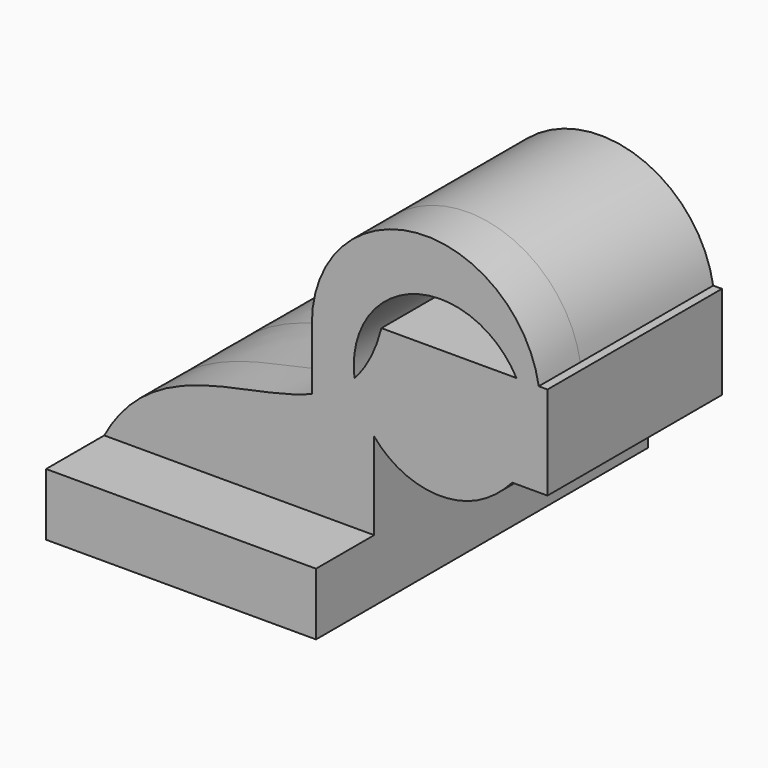
from build123d import *

# Parameters (mm, degrees)
F1_DEPTH = 63.5
F2_DEPTH = 25.4
F3_DEPTH = 15.875


with BuildPart() as f1:
    # F0 (on Front) → F1 (new body, symmetric)
    with BuildSketch(Plane.XZ):
        Polygon((41.275, -9.525), (41.275, 9.525), (22.225, 9.525), (-41.275, 9.525), (-41.275, -9.525), align=None)
    extrude(amount=F1_DEPTH, both=True)

    # F0 (on Front) → F2 (join, symmetric)
    with BuildSketch(Plane.XZ):
        Polygon((41.275, -9.525), (41.275, 9.525), (22.225, 9.525), (-41.275, 9.525), (-41.275, -9.525), align=None)
        with BuildLine():
            Line((22.225, 9.525), (41.275, 9.525))
            Line((41.275, 9.525), (41.275, 36.094566609))
            ThreePointArc((41.275, 36.094566609), (37.2701177009, 42.5355625854), (35.2519640423, 49.8466888466))
            add(Edge.make_bspline(
                [(22.225, 41.2858579773), (27.1473848913, 43.2390175142), (31.5927512489, 45.8874426384), (35.2519640423, 49.8466888466)],
                knots=[68.7075286576, 68.7075286576, 68.7075286576, 68.7075286576, 85.3888938388, 85.3888938388, 85.3888938388, 85.3888938388], degree=3))
            Line((22.225, 41.2858579773), (22.225, 9.525))
        make_face()
        with BuildLine():
            Line((-41.275, 9.525), (22.225, 9.525))
            Line((22.225, 9.525), (22.225, 41.2858579773))
            add(Edge.make_bspline(
                [(-41.275, 9.525), (-26.416290782, 36.991388499), (1.9505861672, 33.2411468041), (22.225, 41.2858579773)],
                knots=[0, 0, 0, 0, 68.7075286576, 68.7075286576, 68.7075286576, 68.7075286576], degree=3))
        make_face()
        with BuildLine():
            ThreePointArc((35.2519640423, 49.8466888466), (37.2701177009, 42.5355625854), (41.275, 36.094566609))
            Line((41.275, 36.094566609), (41.275, 59.3244851528))
            add(Edge.make_bspline(
                [(35.2519640423, 49.8466888466), (37.6153515316, 52.4038598787), (39.6507933359, 55.5078428034), (41.275, 59.3244851528)],
                knots=[85.3888938388, 85.3888938388, 85.3888938388, 85.3888938388, 96.162940608, 96.162940608, 96.162940608, 96.162940608], degree=3))
        make_face()
        with BuildLine():
            Line((41.275, 59.3244851528), (41.275, 36.094566609))
            ThreePointArc((41.275, 36.094566609), (57.3677651162, 26.987491807), (75.5005331428, 30.6094559468))
            ThreePointArc((75.5005331428, 30.6094559468), (79.7565516079, 33.7035903942), (83.4994215816, 37.4020070167))
            Line((83.4994215816, 37.4020070167), (43.4881349932, 37.4020070167))
            Line((43.4881349932, 37.4020070167), (43.4881349932, 65.9770070167))
            add(Edge.make_bspline(
                [(41.275, 59.3244851528), (42.1309988934, 61.335954321), (42.872774659, 63.5453690941), (43.4881349932, 65.9770070167)],
                knots=[96.162940608, 96.162940608, 96.162940608, 96.162940608, 101.8411417359, 101.8411417359, 101.8411417359, 101.8411417359], degree=3))
        make_face()
        with BuildLine():
            Line((22.225, 60.325), (22.225, 41.2858579773))
            add(Edge.make_bspline(
                [(22.225, 41.2858579773), (27.1473848913, 43.2390175142), (31.5927512489, 45.8874426384), (35.2519640423, 49.8466888466)],
                knots=[68.7075286576, 68.7075286576, 68.7075286576, 68.7075286576, 85.3888938388, 85.3888938388, 85.3888938388, 85.3888938388], degree=3))
            ThreePointArc((35.2519640423, 49.8466888466), (53.353585698, 78.3955074484), (84.7937605886, 65.9770070167))
            Line((84.7937605886, 65.9770070167), (91.6146259472, 65.9770070167))
            ThreePointArc((91.6146259472, 65.9770070167), (54.3146372549, 95.1347162169), (22.225, 60.325))
        make_face()
        with BuildLine():
            Line((71.9847713728, 65.9770070167), (43.4881349932, 65.9770070167))
            Line((43.4881349932, 65.9770070167), (43.4881349932, 37.4020070167))
            Line((43.4881349932, 37.4020070167), (83.4994215816, 37.4020070167))
            ThreePointArc((83.4994215816, 37.4020070167), (90.7464246678, 50.7837278343), (91.6146259472, 65.9770070167))
            Line((91.6146259472, 65.9770070167), (84.7937605886, 65.9770070167))
            Line((84.7937605886, 65.9770070167), (71.9847713728, 65.9770070167))
        make_face()
        with BuildLine():
            ThreePointArc((91.6146259472, 65.9770070167), (90.7464246678, 50.7837278343), (83.4994215816, 37.4020070167))
            Line((83.4994215816, 37.4020070167), (94.2881349932, 37.4020070167))
            Line((94.2881349932, 37.4020070167), (94.2881349932, 65.9770070167))
            Line((94.2881349932, 65.9770070167), (91.6146259472, 65.9770070167))
        make_face()
    extrude(amount=F2_DEPTH, both=True)

    # F0 (on Front) + F2_face (on face) → F3 (join)
    with BuildSketch(Plane.XZ):
        Polygon((41.275, -9.525), (41.275, 9.525), (22.225, 9.525), (-41.275, 9.525), (-41.275, -9.525), align=None)
        with BuildLine():
            Line((22.225, 9.525), (41.275, 9.525))
            Line((41.275, 9.525), (41.275, 36.094566609))
            ThreePointArc((41.275, 36.094566609), (37.2701177009, 42.5355625854), (35.2519640423, 49.8466888466))
            add(Edge.make_bspline(
                [(22.225, 41.2858579773), (27.1473848913, 43.2390175142), (31.5927512489, 45.8874426384), (35.2519640423, 49.8466888466)],
                knots=[68.7075286576, 68.7075286576, 68.7075286576, 68.7075286576, 85.3888938388, 85.3888938388, 85.3888938388, 85.3888938388], degree=3))
            Line((22.225, 41.2858579773), (22.225, 9.525))
        make_face()
        with BuildLine():
            Line((-41.275, 9.525), (22.225, 9.525))
            Line((22.225, 9.525), (22.225, 41.2858579773))
            add(Edge.make_bspline(
                [(-41.275, 9.525), (-26.416290782, 36.991388499), (1.9505861672, 33.2411468041), (22.225, 41.2858579773)],
                knots=[0, 0, 0, 0, 68.7075286576, 68.7075286576, 68.7075286576, 68.7075286576], degree=3))
        make_face()
        with BuildLine():
            ThreePointArc((35.2519640423, 49.8466888466), (37.2701177009, 42.5355625854), (41.275, 36.094566609))
            Line((41.275, 36.094566609), (41.275, 59.3244851528))
            add(Edge.make_bspline(
                [(35.2519640423, 49.8466888466), (37.6153515316, 52.4038598787), (39.6507933359, 55.5078428034), (41.275, 59.3244851528)],
                knots=[85.3888938388, 85.3888938388, 85.3888938388, 85.3888938388, 96.162940608, 96.162940608, 96.162940608, 96.162940608], degree=3))
        make_face()
        with BuildLine():
            Line((41.275, 59.3244851528), (41.275, 36.094566609))
            ThreePointArc((41.275, 36.094566609), (57.3677651162, 26.987491807), (75.5005331428, 30.6094559468))
            ThreePointArc((75.5005331428, 30.6094559468), (79.7565516079, 33.7035903942), (83.4994215816, 37.4020070167))
            Line((83.4994215816, 37.4020070167), (43.4881349932, 37.4020070167))
            Line((43.4881349932, 37.4020070167), (43.4881349932, 65.9770070167))
            add(Edge.make_bspline(
                [(41.275, 59.3244851528), (42.1309988934, 61.335954321), (42.872774659, 63.5453690941), (43.4881349932, 65.9770070167)],
                knots=[96.162940608, 96.162940608, 96.162940608, 96.162940608, 101.8411417359, 101.8411417359, 101.8411417359, 101.8411417359], degree=3))
        make_face()
        with BuildLine():
            Line((22.225, 60.325), (22.225, 41.2858579773))
            add(Edge.make_bspline(
                [(22.225, 41.2858579773), (27.1473848913, 43.2390175142), (31.5927512489, 45.8874426384), (35.2519640423, 49.8466888466)],
                knots=[68.7075286576, 68.7075286576, 68.7075286576, 68.7075286576, 85.3888938388, 85.3888938388, 85.3888938388, 85.3888938388], degree=3))
            ThreePointArc((35.2519640423, 49.8466888466), (53.353585698, 78.3955074484), (84.7937605886, 65.9770070167))
            Line((84.7937605886, 65.9770070167), (91.6146259472, 65.9770070167))
            ThreePointArc((91.6146259472, 65.9770070167), (54.3146372549, 95.1347162169), (22.225, 60.325))
        make_face()
        with BuildLine():
            Line((71.9847713728, 65.9770070167), (43.4881349932, 65.9770070167))
            Line((43.4881349932, 65.9770070167), (43.4881349932, 37.4020070167))
            Line((43.4881349932, 37.4020070167), (83.4994215816, 37.4020070167))
            ThreePointArc((83.4994215816, 37.4020070167), (90.7464246678, 50.7837278343), (91.6146259472, 65.9770070167))
            Line((91.6146259472, 65.9770070167), (84.7937605886, 65.9770070167))
            Line((84.7937605886, 65.9770070167), (71.9847713728, 65.9770070167))
        make_face()
        with BuildLine():
            ThreePointArc((91.6146259472, 65.9770070167), (90.7464246678, 50.7837278343), (83.4994215816, 37.4020070167))
            Line((83.4994215816, 37.4020070167), (94.2881349932, 37.4020070167))
            Line((94.2881349932, 37.4020070167), (94.2881349932, 65.9770070167))
            Line((94.2881349932, 65.9770070167), (91.6146259472, 65.9770070167))
        make_face()
    with BuildSketch(Plane(origin=(39.5464553356, -25.4, 45.7929419382), x_dir=(1, 0, 0), z_dir=(0, -1, 0))):
        with BuildLine():
            Line((-80.8214553356, -36.2679419382), (1.7285446644, -36.2679419382))
            Line((1.7285446644, -36.2679419382), (1.7285446644, -9.6983753292))
            ThreePointArc((1.7285446644, -9.6983753292), (17.8213097807, -18.8054501311), (35.9540778072, -15.1834859914))
            ThreePointArc((35.9540778072, -15.1834859914), (40.2100962723, -12.089351544), (43.952966246, -8.3909349215))
            Line((43.952966246, -8.3909349215), (54.7416796576, -8.3909349215))
            Line((54.7416796576, -8.3909349215), (54.7416796576, 20.1840650785))
            Line((54.7416796576, 20.1840650785), (52.0681706117, 20.1840650785))
            ThreePointArc((52.0681706117, 20.1840650785), (14.7681819193, 49.3417742788), (-17.3214553356, 14.5320580618))
            Line((-17.3214553356, 14.5320580618), (-17.3214553356, -4.5070839609))
            add(Edge.make_bspline(
                [(-17.3214553356, -4.5070839609), (-37.5958691684, -12.5517951341), (-65.9627461175, -8.8015534392), (-80.8214553356, -36.2679419382)],
                knots=[129.2965536863, 129.2965536863, 129.2965536863, 129.2965536863, 198.004082344, 198.004082344, 198.004082344, 198.004082344], degree=3))
        make_face()
        with BuildLine():
            add(Edge.make_bspline(
                [(3.9416796576, 20.1840650785), (2.158709922, 13.1385397446), (-0.6855375098, 7.9586131706), (-4.2944912933, 4.0537469084)],
                knots=[96.162940608, 96.162940608, 96.162940608, 96.162940608, 112.6151885052, 112.6151885052, 112.6151885052, 112.6151885052], degree=3))
            ThreePointArc((-4.2944912933, 4.0537469084), (13.8071303624, 32.6025655102), (45.247305253, 20.1840650785))
            Line((45.247305253, 20.1840650785), (3.9416796576, 20.1840650785))
        make_face(mode=Mode.SUBTRACT)
    extrude(amount=F3_DEPTH)


solid = f1.part
